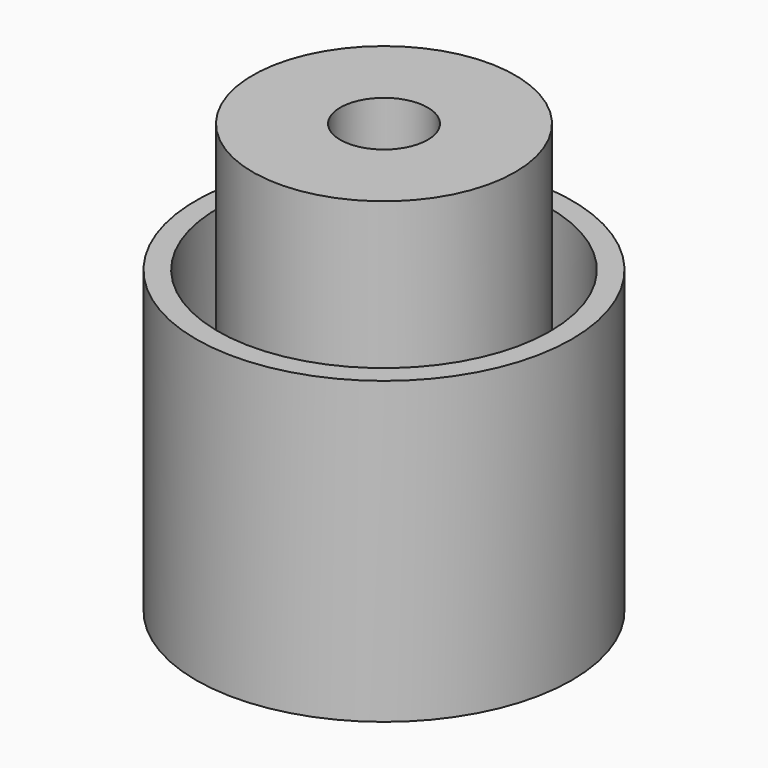
from build123d import *

# Parameters (mm, degrees)
F0_R     = 27.813
F0_R_2   = 24.6126
F1_DEPTH = 27.94
F0_R_3   = 19.431
F0_R_4   = 6.477
F2_DEPTH = 16.51
F3_DEPTH = 19.05


with BuildPart() as f1:
    # F0 (on Top) → F1 (new body)
    with BuildSketch(Plane.XY):
        Circle(F0_R)
        Circle(F0_R_2, mode=Mode.SUBTRACT)
    extrude(amount=F1_DEPTH)



with BuildPart() as f1b:
    # F0 (on Top) → F1, piece 2 (new body)
    with BuildSketch(Plane.XY):
        Circle(F0_R_3)
        Circle(F0_R_4, mode=Mode.SUBTRACT)
    extrude(amount=F1_DEPTH)


with BuildPart() as f1_1:
    add(f1.part)

    add(f1b.part)  # F2 merges F1b
    # F0 (on Top) → F2 (join)
    with BuildSketch(Plane.XY):
        Circle(F0_R)
        Circle(F0_R_2, mode=Mode.SUBTRACT)
        Circle(F0_R_2)
        Circle(F0_R_3, mode=Mode.SUBTRACT)
        Circle(F0_R_3)
        Circle(F0_R_4, mode=Mode.SUBTRACT)
    extrude(amount=-F2_DEPTH)

    # F3 (add): a face of the model
    f3_faces = [f1_1.faces().sort_by_distance(p)[0] for p in [
        (-18.8814083254, 0, 27.94),
    ]]
    extrude(f3_faces, amount=F3_DEPTH)


solid = f1_1.part
